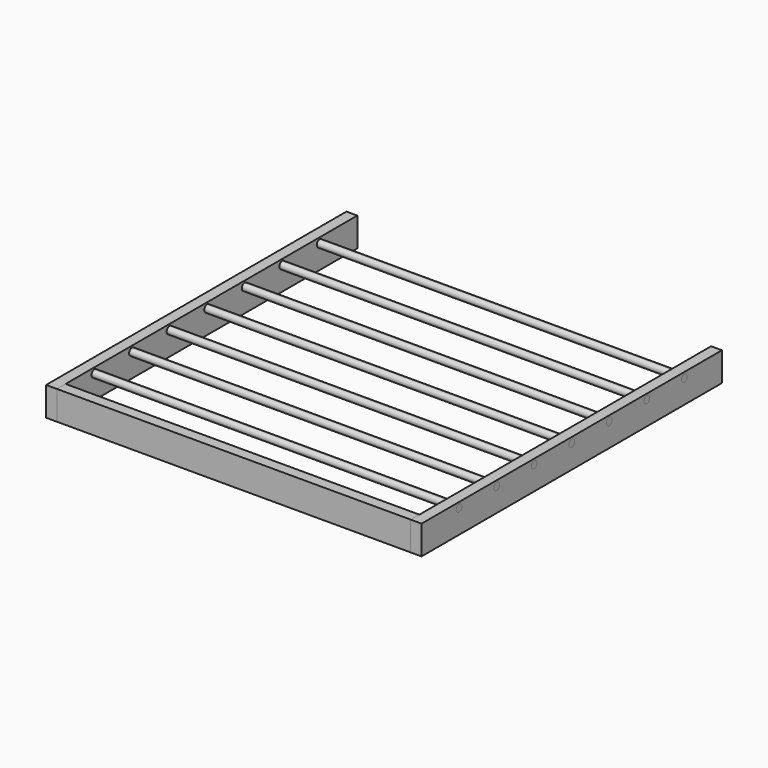
from build123d import *

# Parameters (mm, degrees)
F0_W      = 660.4
F0_H      = 660.4
F1_DEPTH  = 19.05
F3_DEPTH  = 660.401
F4_W      = 622.3
F4_H      = 622.3
F5_DEPTH  = 19.051
F6_DEPTH  = 660.4
F7_DEPTH  = 31.75
F8_W      = 622.3
F8_H      = 50.8
F9_DEPTH  = 660.401
F10_DEPTH = 19.05


with BuildPart() as f1:
    # F0 (on Top) → F1 (new body)
    with BuildSketch(Plane.XY):
        with Locations((272.1124062419, 265.3669889885)):
            Rectangle(F0_W, F0_H)
    extrude(amount=F1_DEPTH)

    # F2 (on face) → F3 (cut, through all)
    with BuildSketch(Plane.YZ.offset(602.3124062419)):
        with BuildLine():
            Line((265.3669889885, 3.175), (265.3669889885, 15.875))
            ThreePointArc((265.3669889885, 15.875), (259.0169889885, 9.525), (265.3669889885, 3.175))
        make_face()
        with BuildLine():
            Line((100.2669889885, 3.175), (100.2669889885, 15.875))
            ThreePointArc((100.2669889885, 15.875), (93.9169889885, 9.525), (100.2669889885, 3.175))
        make_face()
        with BuildLine():
            ThreePointArc((436.8169889885, 9.525), (434.957117049, 14.0151280605), (430.4669889885, 15.875))
            Line((430.4669889885, 15.875), (430.4669889885, 3.175))
            ThreePointArc((430.4669889885, 3.175), (434.957117049, 5.0348719395), (436.8169889885, 9.525))
        make_face()
        with BuildLine():
            Line((182.8169889885, 3.175), (182.8169889885, 15.875))
            ThreePointArc((182.8169889885, 15.875), (176.4669889885, 9.525), (182.8169889885, 3.175))
        make_face()
        with BuildLine():
            Line((347.9169889885, 3.175), (347.9169889885, 15.875))
            ThreePointArc((347.9169889885, 15.875), (341.5669889885, 9.525), (347.9169889885, 3.175))
        make_face()
        with BuildLine():
            Line((17.7169889885, 3.175), (17.7169889885, 15.875))
            ThreePointArc((17.7169889885, 15.875), (11.3669889885, 9.525), (17.7169889885, 3.175))
        make_face()
        with BuildLine():
            ThreePointArc((24.0669889885, 9.525), (22.207117049, 14.0151280605), (17.7169889885, 15.875))
            Line((17.7169889885, 15.875), (17.7169889885, 3.175))
            ThreePointArc((17.7169889885, 3.175), (22.207117049, 5.0348719395), (24.0669889885, 9.525))
        make_face()
        with BuildLine():
            Line((513.0169889885, 3.175), (513.0169889885, 15.875))
            ThreePointArc((513.0169889885, 15.875), (506.6669889885, 9.525), (513.0169889885, 3.175))
        make_face()
        with BuildLine():
            ThreePointArc((519.3669889885, 9.525), (517.507117049, 14.0151280605), (513.0169889885, 15.875))
            Line((513.0169889885, 15.875), (513.0169889885, 3.175))
            ThreePointArc((513.0169889885, 3.175), (517.507117049, 5.0348719395), (519.3669889885, 9.525))
        make_face()
        with BuildLine():
            Line((430.4669889885, 3.175), (430.4669889885, 15.875))
            ThreePointArc((430.4669889885, 15.875), (424.1169889885, 9.525), (430.4669889885, 3.175))
        make_face()
        with BuildLine():
            ThreePointArc((354.2669889885, 9.525), (352.407117049, 14.0151280605), (347.9169889885, 15.875))
            Line((347.9169889885, 15.875), (347.9169889885, 3.175))
            ThreePointArc((347.9169889885, 3.175), (352.407117049, 5.0348719395), (354.2669889885, 9.525))
        make_face()
        with BuildLine():
            ThreePointArc((271.7169889885, 9.525), (269.857117049, 14.0151280605), (265.3669889885, 15.875))
            Line((265.3669889885, 15.875), (265.3669889885, 3.175))
            ThreePointArc((265.3669889885, 3.175), (269.857117049, 5.0348719395), (271.7169889885, 9.525))
        make_face()
        with BuildLine():
            ThreePointArc((106.6169889885, 9.525), (104.757117049, 14.0151280605), (100.2669889885, 15.875))
            Line((100.2669889885, 15.875), (100.2669889885, 3.175))
            ThreePointArc((100.2669889885, 3.175), (104.757117049, 5.0348719395), (106.6169889885, 9.525))
        make_face()
        with BuildLine():
            ThreePointArc((189.1669889885, 9.525), (187.307117049, 14.0151280605), (182.8169889885, 15.875))
            Line((182.8169889885, 15.875), (182.8169889885, 3.175))
            ThreePointArc((182.8169889885, 3.175), (187.307117049, 5.0348719395), (189.1669889885, 9.525))
        make_face()
    extrude(amount=-F3_DEPTH, mode=Mode.SUBTRACT)

    # F4 (on face) → F5 (cut, through all)
    with BuildSketch(Plane.XY.offset(19.05)):
        with Locations((272.1124062419, 265.3669889885)):
            Rectangle(F4_W, F4_H)
    extrude(amount=-F5_DEPTH, mode=Mode.SUBTRACT)

    # F7 (add): a face of the model
    f7_faces = [f1.faces().sort_by_distance(p)[0] for p in [
        (-48.7481273922, 265.3669889885, 0),
    ]]
    extrude(f7_faces, amount=F7_DEPTH)

    # F8 (on face) → F9 (cut, through all)
    with BuildSketch(Plane.XZ.offset(64.8330110115)):
        with Locations((272.1124062419, -6.35)):
            Rectangle(F8_W, F8_H)
    extrude(amount=-F9_DEPTH, mode=Mode.SUBTRACT)


with BuildPart() as f6:
    # F2 (on face) → F6 (new body)
    with BuildSketch(Plane.YZ.offset(602.3124062419)):
        with BuildLine():
            ThreePointArc((271.7169889885, 9.525), (269.857117049, 14.0151280605), (265.3669889885, 15.875))
            Line((265.3669889885, 15.875), (265.3669889885, 3.175))
            ThreePointArc((265.3669889885, 3.175), (269.857117049, 5.0348719395), (271.7169889885, 9.525))
        make_face()
        with BuildLine():
            Line((265.3669889885, 3.175), (265.3669889885, 15.875))
            ThreePointArc((265.3669889885, 15.875), (259.0169889885, 9.525), (265.3669889885, 3.175))
        make_face()
    extrude(amount=-F6_DEPTH)


with BuildPart() as f6b:
    # F2 (on face) → F6, piece 2 (new body)
    with BuildSketch(Plane.YZ.offset(602.3124062419)):
        with BuildLine():
            ThreePointArc((106.6169889885, 9.525), (104.757117049, 14.0151280605), (100.2669889885, 15.875))
            Line((100.2669889885, 15.875), (100.2669889885, 3.175))
            ThreePointArc((100.2669889885, 3.175), (104.757117049, 5.0348719395), (106.6169889885, 9.525))
        make_face()
        with BuildLine():
            Line((100.2669889885, 3.175), (100.2669889885, 15.875))
            ThreePointArc((100.2669889885, 15.875), (93.9169889885, 9.525), (100.2669889885, 3.175))
        make_face()
    extrude(amount=-F6_DEPTH)


with BuildPart() as f6c:
    # F2 (on face) → F6, piece 3 (new body)
    with BuildSketch(Plane.YZ.offset(602.3124062419)):
        with BuildLine():
            ThreePointArc((436.8169889885, 9.525), (434.957117049, 14.0151280605), (430.4669889885, 15.875))
            Line((430.4669889885, 15.875), (430.4669889885, 3.175))
            ThreePointArc((430.4669889885, 3.175), (434.957117049, 5.0348719395), (436.8169889885, 9.525))
        make_face()
        with BuildLine():
            Line((430.4669889885, 3.175), (430.4669889885, 15.875))
            ThreePointArc((430.4669889885, 15.875), (424.1169889885, 9.525), (430.4669889885, 3.175))
        make_face()
    extrude(amount=-F6_DEPTH)


with BuildPart() as f6d:
    # F2 (on face) → F6, piece 4 (new body)
    with BuildSketch(Plane.YZ.offset(602.3124062419)):
        with BuildLine():
            ThreePointArc((189.1669889885, 9.525), (187.307117049, 14.0151280605), (182.8169889885, 15.875))
            Line((182.8169889885, 15.875), (182.8169889885, 3.175))
            ThreePointArc((182.8169889885, 3.175), (187.307117049, 5.0348719395), (189.1669889885, 9.525))
        make_face()
        with BuildLine():
            Line((182.8169889885, 3.175), (182.8169889885, 15.875))
            ThreePointArc((182.8169889885, 15.875), (176.4669889885, 9.525), (182.8169889885, 3.175))
        make_face()
    extrude(amount=-F6_DEPTH)


with BuildPart() as f6e:
    # F2 (on face) → F6, piece 5 (new body)
    with BuildSketch(Plane.YZ.offset(602.3124062419)):
        with BuildLine():
            ThreePointArc((354.2669889885, 9.525), (352.407117049, 14.0151280605), (347.9169889885, 15.875))
            Line((347.9169889885, 15.875), (347.9169889885, 3.175))
            ThreePointArc((347.9169889885, 3.175), (352.407117049, 5.0348719395), (354.2669889885, 9.525))
        make_face()
        with BuildLine():
            Line((347.9169889885, 3.175), (347.9169889885, 15.875))
            ThreePointArc((347.9169889885, 15.875), (341.5669889885, 9.525), (347.9169889885, 3.175))
        make_face()
    extrude(amount=-F6_DEPTH)


with BuildPart() as f6f:
    # F2 (on face) → F6, piece 6 (new body)
    with BuildSketch(Plane.YZ.offset(602.3124062419)):
        with BuildLine():
            ThreePointArc((24.0669889885, 9.525), (22.207117049, 14.0151280605), (17.7169889885, 15.875))
            Line((17.7169889885, 15.875), (17.7169889885, 3.175))
            ThreePointArc((17.7169889885, 3.175), (22.207117049, 5.0348719395), (24.0669889885, 9.525))
        make_face()
        with BuildLine():
            Line((17.7169889885, 3.175), (17.7169889885, 15.875))
            ThreePointArc((17.7169889885, 15.875), (11.3669889885, 9.525), (17.7169889885, 3.175))
        make_face()
    extrude(amount=-F6_DEPTH)


with BuildPart() as f6g:
    # F2 (on face) → F6, piece 7 (new body)
    with BuildSketch(Plane.YZ.offset(602.3124062419)):
        with BuildLine():
            ThreePointArc((519.3669889885, 9.525), (517.507117049, 14.0151280605), (513.0169889885, 15.875))
            Line((513.0169889885, 15.875), (513.0169889885, 3.175))
            ThreePointArc((513.0169889885, 3.175), (517.507117049, 5.0348719395), (519.3669889885, 9.525))
        make_face()
        with BuildLine():
            Line((513.0169889885, 3.175), (513.0169889885, 15.875))
            ThreePointArc((513.0169889885, 15.875), (506.6669889885, 9.525), (513.0169889885, 3.175))
        make_face()
    extrude(amount=-F6_DEPTH)


with BuildPart() as f10:
    # F8 (on face) → F10 (new body)
    with BuildSketch(Plane.XZ.offset(64.8330110115)):
        with Locations((272.1124062419, -6.35)):
            Rectangle(F8_W, F8_H)
    extrude(amount=-F10_DEPTH)


solid = Compound([f1.part, f6.part, f6b.part, f6c.part, f6d.part, f6e.part, f6f.part, f6g.part, f10.part])
